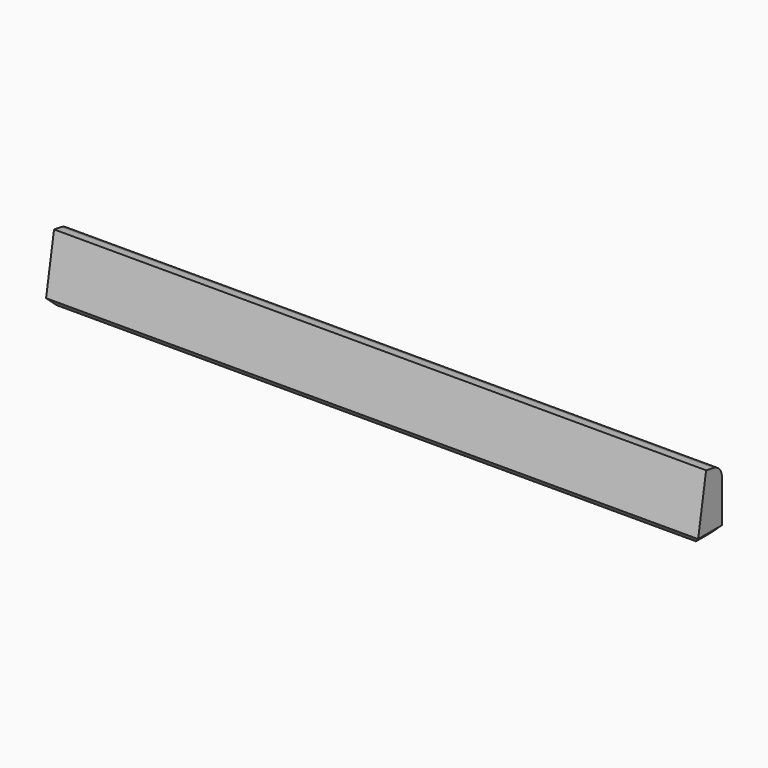
from build123d import *

# Parameters (mm, degrees)
PAD001_DEPTH    = 26
CHAMFER002_SIZE = 0.5
FILLET001_R     = 1


with BuildPart() as part:
    # Sketch002 → Pad001 (new body, symmetric)
    with BuildSketch(Plane.YZ):
        Polygon((0, 0), (-1.575692, 0.277837), (-2.456946, -4.72), (0, -4.72), align=None)
    extrude(amount=PAD001_DEPTH, both=True)

    # Chamfer002
    chamfer002_edges = [part.edges().sort_by_distance(p)[0] for p in [
        (0, -2.456946, -4.72),
        (0, 0, -4.72),
        (-26, -1.228473, -4.72),
        (26, -1.228473, -4.72),
    ]]
    chamfer(chamfer002_edges, length=CHAMFER002_SIZE)

    # Fillet001
    fillet001_edges = [part.edges().sort_by_distance(p)[0] for p in [
        (0, 0, 0),
    ]]
    fillet(fillet001_edges, radius=FILLET001_R)


solid = part.part
